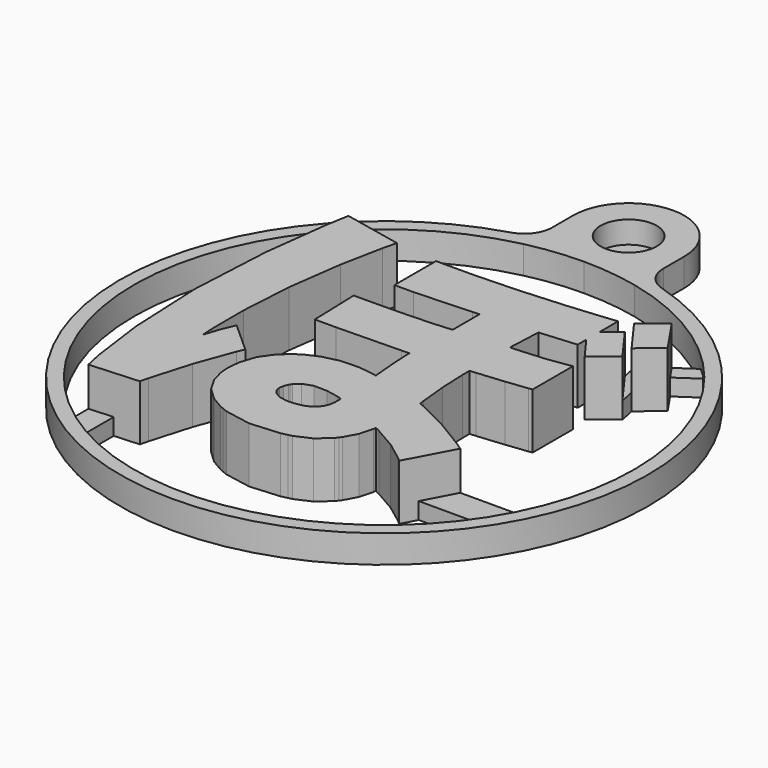
from build123d import *

# Parameters (mm, degrees)
F0_R      = 47.5
F0_R_2    = 45
F2_DEPTH  = 5
F3_DEPTH  = 10
F5_DEPTH  = 3
F7_DEPTH  = 5
F8_R      = 2.5
F9_DEPTH  = 5
F8_R_2    = 5.05
F10_DEPTH = 4
F11_R     = 5


with BuildPart() as f2:
    # F0 (on Top) → F2 (new body)
    with BuildSketch(Plane.XY):
        Circle(F0_R)
        Circle(F0_R_2, mode=Mode.SUBTRACT)
    extrude(amount=F2_DEPTH)

    # F6 (on Top) → F7 (join, through all)
    with BuildSketch(Plane.XY):
        with BuildLine():
            ThreePointArc((0, 45), (-7.071068, 47.928932), (-10, 55))
            Line((-10, 55), (-10, 43.874822))
            ThreePointArc((-10, 43.874822), (-5.031551, 44.717821), (0, 45))
        make_face()
        with BuildLine():
            Line((10, 43.874822), (10, 55))
            ThreePointArc((10, 55), (7.071068, 47.928932), (0, 45))
            ThreePointArc((0, 45), (5.031551, 44.717821), (10, 43.874822))
        make_face()
        with BuildLine():
            ThreePointArc((0, 45), (7.071068, 47.928932), (10, 55))
            Line((10, 55), (-10, 55))
            ThreePointArc((-10, 55), (-7.071068, 47.928932), (0, 45))
        make_face()
        with BuildLine():
            Line((-10, 55), (10, 55))
            ThreePointArc((10, 55), (0, 65), (-10, 55))
        make_face()
    extrude(amount=F7_DEPTH)

    # F8 (on face) → F9 (cut, through all)
    with BuildSketch(Plane.XY.offset(5)):
        with Locations((0, 55)):
            Circle(F8_R)
    extrude(amount=-F9_DEPTH, mode=Mode.SUBTRACT)

    # F8 (on face) → F10 (cut)
    with BuildSketch(Plane.XY.offset(5)):
        with Locations((0, 55)):
            Circle(F8_R_2)
        with Locations((0, 55)):
            Circle(F8_R, mode=Mode.SUBTRACT)
    extrude(amount=-F10_DEPTH, mode=Mode.SUBTRACT)

    # F11
    f11_edges = [f2.edges().sort_by_distance(p)[0] for p in [
        (-10, 46.435439, 2.5),
        (10, 46.435439, 2.5),
    ]]
    fillet(f11_edges, radius=F11_R)


with BuildPart() as f3:
    # F1 (on Top) → F3 (new body)
    with BuildSketch(Plane.XY):
        Polygon((-29.539057, -27.18308), (-28.834969, -30.4546), (-20.015327, -29.90342), (-19.648551, -28.387548), (-17.536033, -21.152866), (-15.054199, -14.376908), (-14.503273, -13.091414), (-20.015327, -8.130286), (-20.199985, -8.496808), (-21.050123, -10.542016), (-21.806789, -12.861036), (-21.944457, -13.367004), (-22.083649, -11.034014), (-22.117939, -4.012692), (-21.532469, 5.581142), (-20.189063, 15.417546), (-18.693511, 22.995128), (-18.085943, 25.493472), (-28.558871, 27.698446), (-29.259149, 23.768558), (-30.747335, 11.868912), (-31.523305, -3.100578), (-30.885257, -17.207738), align=None)
        Polygon((-8.613267, 24.631142), (-10.369169, 24.666956), (-10.369169, 15.296134), (-6.958457, 15.296134), (3.273679, 15.756636), (4.513961, 15.847568), (4.513961, 9.78408), (3.700907, 9.706864), (1.257427, 9.54278), (-2.720721, 9.370568), (-7.424039, 9.26719), (-11.493373, 9.2329), (-12.849479, 9.2329), (-12.573889, 0.137668), (-8.727567, 0.137668), (2.813177, 0.368046), (4.238117, 0.413512), (4.238117, -0.448056), (4.374515, -3.031744), (4.697095, -6.93547), (4.789551, -7.85495), (3.939159, -7.657592), (1.326515, -7.33806), (-1.895221, -7.441438), (-4.874895, -8.16483), (-6.972173, -9.10336), (-7.612761, -9.508236), (-8.288147, -9.926066), (-10.111105, -11.506454), (-11.817223, -13.918184), (-12.729591, -16.743172), (-12.914249, -19.179286), (-12.849479, -19.981672), (-12.785979, -20.725638), (-12.196191, -22.926548), (-10.783951, -25.423622), (-8.613267, -27.47391), (-6.449695, -28.756864), (-5.683885, -29.07665), (-4.811395, -29.443172), (-0.035179, -30.315408), (5.293995, -29.90342), (6.442837, -29.62783), (7.085203, -29.489908), (9.886823, -28.24861), (12.138533, -26.27376), (12.506579, -25.769316), (12.827381, -25.355804), (14.020927, -23.151084), (14.664309, -20.761706), (14.711299, -20.257008), (15.583789, -20.67052), (19.532981, -22.944328), (22.932771, -25.493726), (23.530687, -26.044906), (27.940381, -17.776698), (26.791031, -16.995394), (21.255609, -13.642594), (15.997301, -11.024108), (14.986889, -10.61085), (14.849221, -9.691878), (14.366621, -4.823206), (14.159865, -0.069088), (14.159865, 1.515872), (15.262479, 1.608074), (20.084161, 2.067052), (23.989665, 2.5273), (24.633301, 2.618486), (24.633301, 11.713464), (23.989665, 11.575542), (20.084161, 11.024362), (15.262479, 10.65784), (14.159865, 10.61085), (14.435709, 16.674084), (21.050377, 17.225518), (21.050377, 19.154902), (24.081867, 15.020544), (28.215971, 18.327878), (23.806277, 24.391112), (21.050377, 22.186392), (21.050377, 26.320496), (18.882487, 26.087578), (12.367133, 25.493472), (4.237101, 24.942546), (-3.342513, 24.666956), align=None)
        Polygon((0.440309, -21.634958), (0.104267, -21.634958), (-0.361823, -21.634958), (-1.757807, -21.359622), (-2.789555, -20.715986), (-2.927477, -20.532598), (-3.055747, -20.404582), (-3.342513, -19.929094), (-3.479927, -19.223482), (-3.342513, -18.413476), (-3.051683, -17.717516), (-2.927477, -17.501108), (-2.735961, -17.148556), (-1.790573, -16.29537), (-0.033655, -15.7099), (2.343277, -15.743936), (4.605909, -16.18361), (5.340477, -16.398748), (5.372227, -16.70177), (5.377815, -17.62506), (5.219573, -18.689066), (4.861179, -19.588988), (4.305681, -20.325842), (3.551809, -20.898104), (2.601087, -21.307298), (1.451737, -21.552408), align=None, mode=Mode.SUBTRACT)
        Polygon((31.523305, 24.391112), (27.389201, 30.4546), (23.255351, 27.147266), (27.665045, 21.083778), align=None)
    extrude(amount=F3_DEPTH)


with BuildPart() as f5:
    # F4 (on face) → F5 (new body)
    with BuildSketch(Plane(origin=(0, 0, 0), x_dir=(1, 0, 0), z_dir=(0, 0, -1))):
        with BuildLine():
            Line((-29.259149, -23.300198), (-37.406223, -25.015485))
            ThreePointArc((-37.406223, -25.015485), (-36.051154, -26.93166), (-34.598028, -28.774581))
            Line((-34.598028, -28.774581), (-28.558871, -27.698446))
            Line((-28.558871, -27.698446), (-29.259149, -23.300198))
        make_face()
        with BuildLine():
            Line((-28.834969, 34.547714), (-28.834969, 30.4546))
            Line((-28.834969, 30.4546), (-24.499091, 30.17901))
            Line((-24.499091, 30.17901), (-24.499091, 37.746451))
            ThreePointArc((-24.499091, 37.746451), (-26.714948, 36.212036), (-28.834969, 34.547714))
        make_face()
        Polygon((-15.054199, 14.376908), (-14.503273, 13.091414), (-11.817223, 13.918184), (-12.729591, 16.743172), align=None)
        with BuildLine():
            ThreePointArc((41.33992, 17.776698), (39.989387, 20.636108), (38.441371, 23.39361))
            Line((38.441371, 23.39361), (24.944706, 23.39361))
            Line((24.944706, 23.39361), (27.940381, 17.776698))
            Line((27.940381, 17.776698), (41.33992, 17.776698))
        make_face()
        Polygon((27.665045, -21.083778), (28.215971, -18.327878), (23.806277, -24.391112), (23.255351, -27.147266), align=None)
        with BuildLine():
            Line((27.389201, -30.4546), (30.817169, -32.791799))
            ThreePointArc((30.817169, -32.791799), (31.891302, -31.748147), (32.930111, -30.66933))
            Line((32.930111, -30.66933), (29.047602, -28.022224))
            Line((29.047602, -28.022224), (27.389201, -30.4546))
        make_face()
    extrude(amount=-F5_DEPTH)


solid = Compound([f2.part, f3.part, f5.part])
